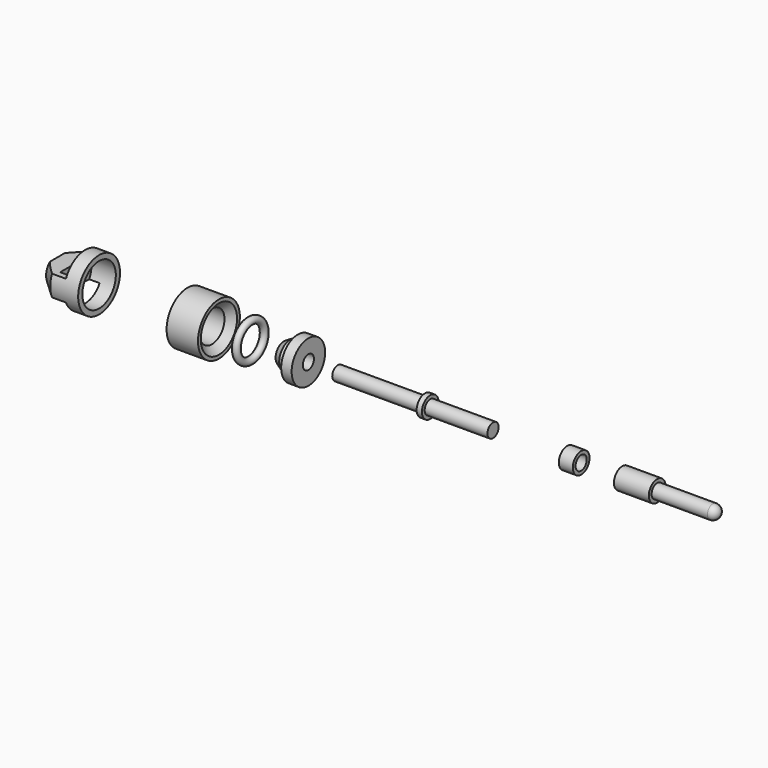
from build123d import *

# Parameters (mm, degrees)
F2_R      = 1
F8_W      = 4
F8_H      = 1
F15_W     = 8
F15_H     = 15
F16_DEPTH = 5
F18_W     = 8
F18_H     = 15
F19_DEPTH = 5
F20_R     = 2


with BuildPart() as f1:
    # F0 (on Front) → F1 (revolve)
    with BuildSketch(Plane.XZ):
        Polygon((-7, 2), (0, 2), (0, 6), (-3, 6), (-3, 4.1), (-5.094744, 4.1), (-7, 3), align=None)
    revolve(axis=Axis((-6.71507, 0, 0), (1, 0, 0)))


with BuildPart() as f3:
    # F2 (on Front) → F3 (revolve)
    with BuildSketch(Plane.XZ):
        with Locations((-16.654007, 5)):
            Circle(F2_R)
    revolve(axis=Axis((-16.892262, 0, 0), (1, 0, 0)))


with BuildPart() as f5:
    # F4 (on Front) → F5 (revolve)
    with BuildSketch(Plane.XZ):
        Polygon((-34.647727, 4.5), (-27.647727, 4.5), (-25.647727, 6.5), (-25.647727, 7.5), (-34.647727, 7.5), align=None)
    revolve(axis=Axis((-33.747856, 0, 0), (-1, 0, 0)))


with BuildPart() as f7:
    # F6 (on Front) → F7 (revolve)
    with BuildSketch(Plane.XZ):
        Polygon((8.44032, 2), (8.44032, 0), (52.94032, 0), (52.94032, 2), (34.94032, 2), (34.94032, 3), (33.44032, 3), (33.44032, 2), align=None)
    revolve(axis=Axis((40.170934, 0, 0), (1, 0, 0)))


with BuildPart() as f9:
    # F8 (on Front) → F9 (revolve)
    with BuildSketch(Plane.XZ):
        with Locations((76.206085, 2.5)):
            Rectangle(F8_W, F8_H)
    revolve(axis=Axis((77.777586, 0, 0), (1, 0, 0)))


with BuildPart() as f11:
    # F10 (on Front) → F11 (revolve)
    with BuildSketch(Plane.XZ):
        Polygon((100, 3), (90, 3), (90, 2), (97, 2), (97, 0), (118, 0), (118, 2), (100, 2), align=None)
    revolve(axis=Axis((123.957818, 0, 0), (1, 0, 0)))

    # F20
    f20_edges = [f11.edges().sort_by_distance(p)[0] for p in [
        (118, 0, -2),
    ]]
    fillet(f20_edges, radius=F20_R)


with BuildPart() as f13:
    # F12 (on Front) → F13 (revolve)
    with BuildSketch(Plane.XZ):
        Polygon((-60, 6), (-60, 7.5), (-68, 7.5), (-72, 4), (-72, 2), (-67, 2), (-67, 6), align=None)
    revolve(axis=Axis((-45.470646, 0, 0), (-1, 0, 0)))

    # F15 (on offset) → F16 (cut)
    with BuildSketch(Plane.XY.offset(8)):
        with Locations((-68, 0)):
            Rectangle(F15_W, F15_H)
    extrude(amount=-F16_DEPTH, mode=Mode.SUBTRACT)

    # F18 (on offset) → F19 (cut)
    with BuildSketch(Plane.XY.offset(-8)):
        with Locations((-68, 0)):
            Rectangle(F18_W, F18_H)
    extrude(amount=F19_DEPTH, mode=Mode.SUBTRACT)


solid = Compound([f1.part, f3.part, f5.part, f7.part, f9.part, f11.part, f13.part])
